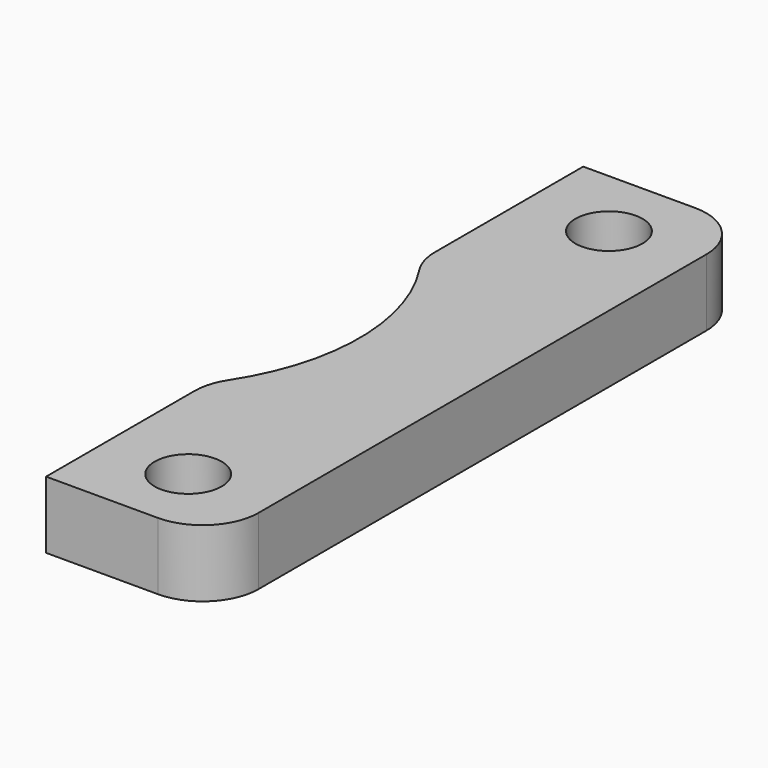
from build123d import *

# Parameters (mm, degrees)
F1_DEPTH = 6
F3_D     = 6
F4_R     = 5


with BuildPart() as f1:
    # F0 (on Top) → F1 (new body)
    with BuildSketch(Plane.XY):
        with BuildLine():
            Line((7.5, -30), (7.5, 30))
            Line((7.5, 30), (-7.5, 30))
            Line((-7.5, 30), (-7.5, 11.83216))
            ThreePointArc((-7.5, 11.83216), (-3.5, 0), (-7.5, -11.83216))
            Line((-7.5, -11.83216), (-7.5, -30))
            Line((-7.5, -30), (7.5, -30))
        make_face()
    extrude(amount=F1_DEPTH)

    # F3 (through all)
    with Locations(Plane.XY.offset(6)):
        with Locations((0, 23.5), (0, -23.5)):
            Hole(F3_D / 2)

    # F4
    f4_edges = [f1.edges().sort_by_distance(p)[0] for p in [
        (7.5, 30, 3),
        (7.5, -30, 3),
        (-7.5, -11.83216, 3),
        (-7.5, 11.83216, 3),
    ]]
    fillet(f4_edges, radius=F4_R)


solid = f1.part
